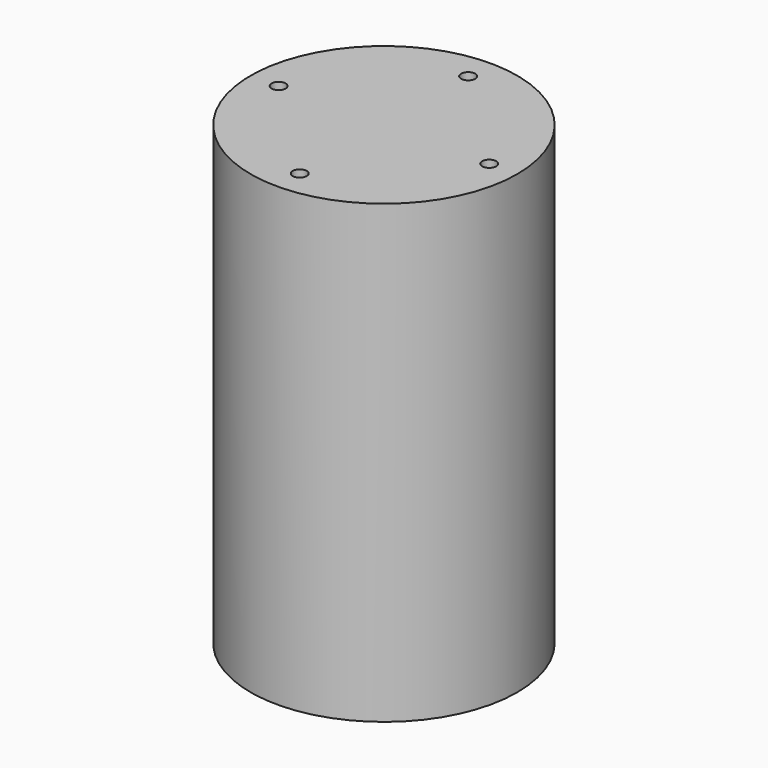
from build123d import *

# Parameters (mm, degrees)
F0_R     = 76
F1_DEPTH = 10
F2_R     = 4
F3_DEPTH = 10
F4_DEPTH = 250
F5_R     = 70
F6_DEPTH = 250


with BuildPart() as f1:
    # F0 (on Top) → F1 (new body)
    with BuildSketch(Plane.XY):
        Circle(F0_R)
    extrude(amount=F1_DEPTH)

    # F2 (on face) → F3 (cut, through all)
    with BuildSketch(Plane.XY.offset(10)):
        with Locations((-60, 0)):
            Circle(F2_R)
        with Locations((60, 0)):
            Circle(F2_R)
        with Locations((0, -60)):
            Circle(F2_R)
        with Locations((0, 60)):
            Circle(F2_R)
    extrude(amount=-F3_DEPTH, mode=Mode.SUBTRACT)

    # F4 (add): a face of the model
    f4_faces = [f1.faces().sort_by_distance(p)[0] for p in [
        (0, 0, 0),
    ]]
    extrude(f4_faces, amount=F4_DEPTH)

    # F5 (on face) → F6 (cut, through all)
    with BuildSketch(Plane(origin=(0, 0, -250), x_dir=(1, 0, 0), z_dir=(0, 0, -1))):
        Circle(F5_R)
    extrude(amount=-F6_DEPTH, mode=Mode.SUBTRACT)


solid = f1.part
